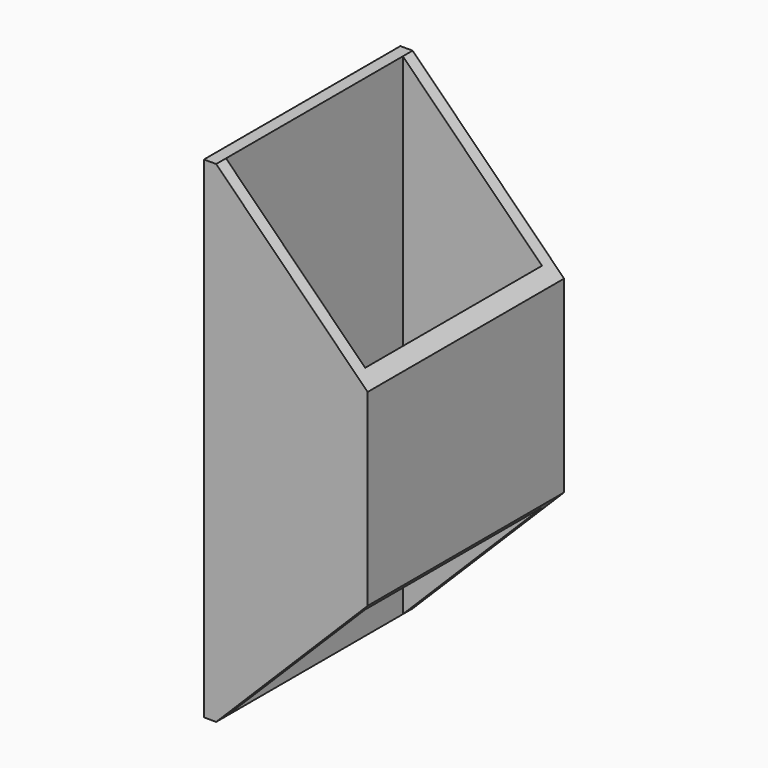
from build123d import *

# Parameters (mm, degrees)
F0_W     = 40
F0_H     = 120
F1_DEPTH = 60
F2_W     = 34
F2_H     = 54
F3_DEPTH = 450
F5_DEPTH = 61


with BuildPart() as f1:
    # F0 (on Front) → F1 (new body)
    with BuildSketch(Plane.XZ):
        Rectangle(F0_W, F0_H)
    extrude(amount=F1_DEPTH)

    # F2 (on face) → F3 (cut)
    with BuildSketch(Plane(origin=(0, 0, -60), x_dir=(1, 0, 0), z_dir=(0, 0, -1))):
        with Locations((0, 30)):
            Rectangle(F2_W, F2_H)
    extrude(amount=-F3_DEPTH, mode=Mode.SUBTRACT)

    # F4 (on face) → F5 (cut)
    with BuildSketch(Plane.XZ.offset(60)):
        Polygon((20, 60), (-17, 60), (20, 23), align=None)
        Polygon((20, -60), (20, -23), (-17, -60), align=None)
    extrude(amount=-F5_DEPTH, mode=Mode.SUBTRACT)


solid = f1.part
